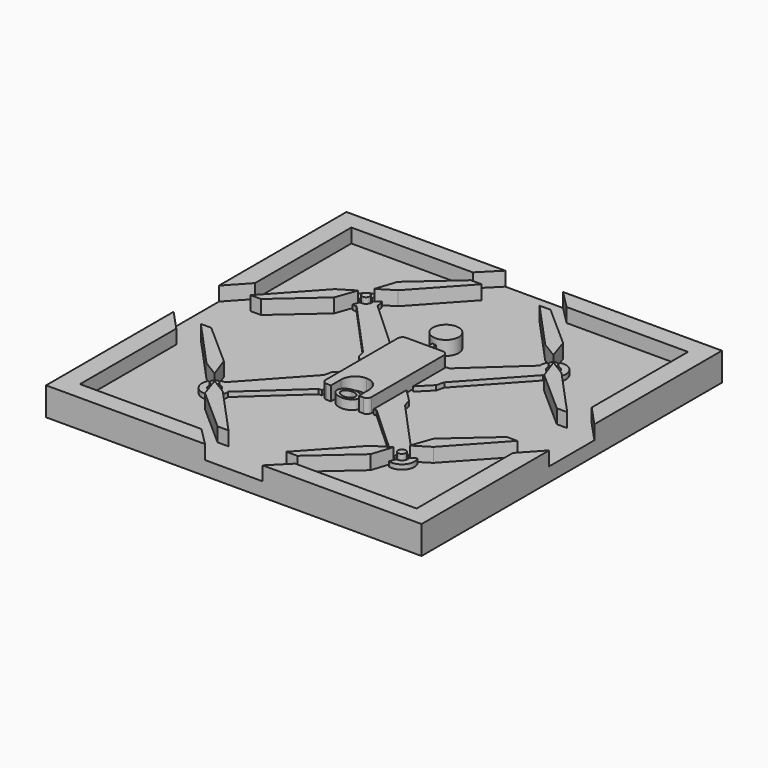
from build123d import *

# Parameters (mm, degrees)
F0_R     = 0.406441
F0_R_2   = 1.37539
F0_W     = 0.206308
F0_H     = 1.00032
F1_DEPTH = 1.5
F2_DEPTH = 3
F3_DEPTH = 2.5
F4_DEPTH = 2


with BuildPart() as f1:
    # F0 (on Top) → F1 (new body)
    with BuildSketch(Plane.XY):
        Polygon((3.071683, 20), (-3.071683, 20), (-4.993777, 18.068939), (-17.932957, 18.068939), (-17.932957, 5.246264), (-20, 3.011257), (-20, -3.011257), (-17.932957, -5.246264), (-17.932957, -18.068939), (-4.993777, -18.068939), (-3.071683, -20), (3.071683, -20), (4.993777, -18.068939), (17.932957, -18.068939), (17.932957, -5.246264), (20, -3.011257), (20, 3.011257), (17.932957, 5.246264), (17.932957, 18.068939), (4.993777, 18.068939), align=None)
        with BuildLine():
            ThreePointArc((-10.562102, -9.840905), (-10.46828, -10.481644), (-9.859537, -10.70251))
            Line((-9.859537, -10.70251), (-9.621989, -11.368845))
            ThreePointArc((-9.621989, -11.368845), (-11.022895, -10.914675), (-11.153115, -9.447756))
            Line((-11.153115, -9.447756), (-10.562102, -9.840905))
        make_face(mode=Mode.SUBTRACT)
        Polygon((-9.532982, -10.635927), (-7.828345, -11.678982), (-3.08488, -16.858847), (-4.248344, -16.858847), (-8.816526, -12.825849), align=None, mode=Mode.SUBTRACT)
        with Locations((-9.979123, -10.082779)):
            Circle(F0_R, mode=Mode.SUBTRACT)
        Polygon((-10.398631, -9.568356), (-12.080961, -8.536017), (-16.860308, -3.31697), (-15.7515, -3.31697), (-11.182444, -7.350739), align=None, mode=Mode.SUBTRACT)
        with BuildLine():
            ThreePointArc((-9.402405, -10.339223), (-9.499763, -9.672191), (-10.143918, -9.473508))
            Line((-10.143918, -9.473508), (-10.398631, -8.815686))
            ThreePointArc((-10.398631, -8.815686), (-10.163262, -8.760809), (-9.921855, -8.749275))
            Line((-9.921855, -8.749275), (-9.912345, -8.738904))
            Line((-9.912345, -8.738904), (-4.342383, -2.634681))
            Line((-4.342383, -2.634681), (-4.115038, -1.80487))
            Line((-4.115038, -1.80487), (-2.749222, -0.425329))
            Line((-2.749222, -0.425329), (-2.749222, -4.835829))
            Line((-2.749222, -4.835829), (-3.08488, -4.835829))
            Line((-3.08488, -4.835829), (-8.65265, -9.93452))
            ThreePointArc((-8.65265, -9.93452), (-8.670516, -10.345566), (-8.812724, -10.731642))
            Line((-8.812724, -10.731642), (-9.402405, -10.339223))
        make_face(mode=Mode.SUBTRACT)
        with BuildLine():
            ThreePointArc((1.321687, -4.523145), (-0.0026, -3.669346), (-1.326886, -4.523145))
            Line((-1.326886, -4.523145), (-1.326886, -3.841337))
            ThreePointArc((-1.326886, -3.841337), (-0.0026, -3.059369), (1.321687, -3.841337))
            Line((1.321687, -3.841337), (1.321687, -4.523145))
        make_face(mode=Mode.SUBTRACT)
        Polygon((7.828345, -11.678982), (9.532982, -10.635927), (8.816526, -12.825849), (4.248344, -16.858847), (3.08488, -16.858847), align=None, mode=Mode.SUBTRACT)
        with Locations((9.979123, -10.082779)):
            Circle(F0_R, mode=Mode.SUBTRACT)
        with BuildLine():
            Line((9.621989, -11.368845), (9.859537, -10.70251))
            ThreePointArc((9.859537, -10.70251), (10.46828, -10.481644), (10.562102, -9.840905))
            Line((10.562102, -9.840905), (11.153115, -9.447756))
            ThreePointArc((11.153115, -9.447756), (11.022895, -10.914675), (9.621989, -11.368845))
        make_face(mode=Mode.SUBTRACT)
        with BuildLine():
            ThreePointArc((10.143918, -9.473508), (9.499763, -9.672191), (9.402405, -10.339223))
            Line((9.402405, -10.339223), (8.812724, -10.731642))
            ThreePointArc((8.812724, -10.731642), (8.670516, -10.345566), (8.65265, -9.93452))
            Line((8.65265, -9.93452), (3.08488, -4.835829))
            Line((3.08488, -4.835829), (2.749222, -4.835829))
            Line((2.749222, -4.835829), (2.749222, -0.425329))
            Line((2.749222, -0.425329), (4.115038, -1.80487))
            Line((4.115038, -1.80487), (4.342383, -2.634681))
            Line((4.342383, -2.634681), (9.912345, -8.738904))
            Line((9.912345, -8.738904), (9.92181, -8.749277))
            ThreePointArc((9.92181, -8.749277), (10.163239, -8.760806), (10.398631, -8.815686))
            Line((10.398631, -8.815686), (10.143918, -9.473508))
        make_face(mode=Mode.SUBTRACT)
        with BuildLine():
            add(Edge.make_bspline(
                [(-1.189475, -4.773144), (-1.189475, -6.223987), (0.594738, -5.498565), (2.378951, -4.773144), (0.594738, -4.047722), (-1.189475, -3.3223), (-1.189475, -4.773144)],
                knots=[0, 0, 0, 2.094395, 2.094395, 4.18879, 4.18879, 6.283185, 6.283185, 6.283185], degree=2, weights=[1, 0.5, 1, 0.5, 1, 0.5, 1]))
        make_face(mode=Mode.SUBTRACT)
        Polygon((11.182444, -7.350739), (15.7515, -3.31697), (16.860308, -3.31697), (12.080961, -8.536017), (10.398631, -9.568356), align=None, mode=Mode.SUBTRACT)
        Polygon((-15.7515, 3.31697), (-16.860308, 3.31697), (-12.080961, 8.536017), (-10.398631, 9.568356), (-11.182444, 7.350739), align=None, mode=Mode.SUBTRACT)
        with BuildLine():
            Line((-2.749222, 4.835829), (-2.749222, 0.425329))
            Line((-2.749222, 0.425329), (-4.115038, 1.80487))
            Line((-4.115038, 1.80487), (-4.342383, 2.634681))
            Line((-4.342383, 2.634681), (-9.912345, 8.738904))
            Line((-9.912345, 8.738904), (-9.922416, 8.749251))
            ThreePointArc((-9.922416, 8.749251), (-10.16354, 8.760848), (-10.398631, 8.815686))
            Line((-10.398631, 8.815686), (-10.143918, 9.473508))
            ThreePointArc((-10.143918, 9.473508), (-9.499763, 9.672191), (-9.402405, 10.339223))
            Line((-9.402405, 10.339223), (-8.812724, 10.731642))
            ThreePointArc((-8.812724, 10.731642), (-8.670516, 10.345566), (-8.65265, 9.93452))
            Line((-8.65265, 9.93452), (-3.08488, 4.835829))
            Line((-3.08488, 4.835829), (-2.749222, 4.835829))
        make_face(mode=Mode.SUBTRACT)
        with BuildLine():
            Line((-10.562102, 9.840905), (-11.153115, 9.447756))
            ThreePointArc((-11.153115, 9.447756), (-11.022895, 10.914675), (-9.621989, 11.368845))
            Line((-9.621989, 11.368845), (-9.859537, 10.70251))
            ThreePointArc((-9.859537, 10.70251), (-10.46828, 10.481644), (-10.562102, 9.840905))
        make_face(mode=Mode.SUBTRACT)
        with Locations((-9.979123, 10.082779)):
            Circle(F0_R, mode=Mode.SUBTRACT)
        Polygon((-7.828345, 11.678982), (-9.532982, 10.635927), (-8.816526, 12.825849), (-4.248344, 16.858847), (-3.08488, 16.858847), align=None, mode=Mode.SUBTRACT)
        with BuildLine():
            Line((-1.956361, 5.406742), (0, 5.406742))
            Line((0, 5.406742), (1.956361, 5.406742))
            ThreePointArc((1.956361, 5.406742), (2.309915, 5.260296), (2.456361, 4.906742))
            Line((2.456361, 4.906742), (2.456361, -4.708137))
            ThreePointArc((2.456361, -4.708137), (2.309915, -5.06169), (1.956361, -5.208137))
            Line((1.956361, -5.208137), (1.485665, -5.208137))
            Line((1.485665, -5.208137), (1.485665, -3.838153))
            ThreePointArc((1.485665, -3.838153), (1.050524, -2.787629), (0, -2.352488))
            ThreePointArc((0, -2.352488), (-1.050524, -2.787629), (-1.485665, -3.838153))
            Line((-1.485665, -3.838153), (-1.485665, -5.208137))
            Line((-1.485665, -5.208137), (-1.956361, -5.208137))
            ThreePointArc((-1.956361, -5.208137), (-2.309915, -5.06169), (-2.456361, -4.708137))
            Line((-2.456361, -4.708137), (-2.456361, 4.906742))
            ThreePointArc((-2.456361, 4.906742), (-2.309915, 5.260296), (-1.956361, 5.406742))
        make_face(mode=Mode.SUBTRACT)
        Polygon((-0.206308, 6.698101), (0, 6.698101), (0.206308, 6.698101), (0.206308, 5.697781), (0, 5.697781), (-0.206308, 5.697781), align=None, mode=Mode.SUBTRACT)
        with Locations((0, 8.238171)):
            Circle(F0_R_2, mode=Mode.SUBTRACT)
        with BuildLine():
            ThreePointArc((9.402405, 10.339223), (9.499763, 9.672191), (10.143918, 9.473508))
            Line((10.143918, 9.473508), (10.398631, 8.815686))
            ThreePointArc((10.398631, 8.815686), (10.163239, 8.760806), (9.92181, 8.749277))
            Line((9.92181, 8.749277), (9.912345, 8.738904))
            Line((9.912345, 8.738904), (4.342383, 2.634681))
            Line((4.342383, 2.634681), (4.115038, 1.80487))
            Line((4.115038, 1.80487), (2.749222, 0.425329))
            Line((2.749222, 0.425329), (2.749222, 4.835829))
            Line((2.749222, 4.835829), (3.08488, 4.835829))
            Line((3.08488, 4.835829), (8.65265, 9.93452))
            ThreePointArc((8.65265, 9.93452), (8.670516, 10.345566), (8.812724, 10.731642))
            Line((8.812724, 10.731642), (9.402405, 10.339223))
        make_face(mode=Mode.SUBTRACT)
        Polygon((16.860308, 3.31697), (15.7515, 3.31697), (11.182444, 7.350739), (10.398631, 9.568356), (12.080961, 8.536017), align=None, mode=Mode.SUBTRACT)
        with Locations((9.979123, 10.082779)):
            Circle(F0_R, mode=Mode.SUBTRACT)
        Polygon((3.08488, 16.858847), (4.248344, 16.858847), (8.816526, 12.825849), (9.532982, 10.635927), (7.828345, 11.678982), align=None, mode=Mode.SUBTRACT)
        with BuildLine():
            ThreePointArc((10.562102, 9.840905), (10.46828, 10.481644), (9.859537, 10.70251))
            Line((9.859537, 10.70251), (9.621989, 11.368845))
            ThreePointArc((9.621989, 11.368845), (11.022895, 10.914675), (11.153115, 9.447756))
            Line((11.153115, 9.447756), (10.562102, 9.840905))
        make_face(mode=Mode.SUBTRACT)
        Polygon((16.860308, -3.31697), (15.7515, -3.31697), (11.182444, -7.350739), (10.398631, -9.568356), (12.080961, -8.536017), align=None)
        Polygon((8.816526, 12.825849), (4.248344, 16.858847), (3.08488, 16.858847), (7.828345, 11.678982), (9.532982, 10.635927), align=None)
        Polygon((-3.071683, 20), (-20, 20), (-20, 3.011257), (-17.932957, 5.246264), (-17.932957, 18.068939), (-4.993777, 18.068939), align=None)
        Polygon((20, 20), (3.071683, 20), (4.993777, 18.068939), (17.932957, 18.068939), (17.932957, 5.246264), (20, 3.011257), align=None)
        Polygon((8.816526, -12.825849), (9.532982, -10.635927), (7.828345, -11.678982), (3.08488, -16.858847), (4.248344, -16.858847), align=None)
        Polygon((-12.080961, 8.536017), (-16.860308, 3.31697), (-15.7515, 3.31697), (-11.182444, 7.350739), (-10.398631, 9.568356), align=None)
        Polygon((-3.08488, -16.858847), (-7.828345, -11.678982), (-9.532982, -10.635927), (-8.816526, -12.825849), (-4.248344, -16.858847), align=None)
        Polygon((-17.932957, -5.246264), (-20, -3.011257), (-20, -20), (-3.071683, -20), (-4.993777, -18.068939), (-17.932957, -18.068939), align=None)
        Polygon((-8.816526, 12.825849), (-9.532982, 10.635927), (-7.828345, 11.678982), (-3.08488, 16.858847), (-4.248344, 16.858847), align=None)
        Polygon((20, -20), (20, -3.011257), (17.932957, -5.246264), (17.932957, -18.068939), (4.993777, -18.068939), (3.071683, -20), align=None)
        Polygon((11.182444, 7.350739), (15.7515, 3.31697), (16.860308, 3.31697), (12.080961, 8.536017), (10.398631, 9.568356), align=None)
        Polygon((-16.860308, -3.31697), (-12.080961, -8.536017), (-10.398631, -9.568356), (-11.182444, -7.350739), (-15.7515, -3.31697), align=None)
        with BuildLine():
            Line((0, -2.352488), (0, 5.406742))
            Line((0, 5.406742), (-1.956361, 5.406742))
            ThreePointArc((-1.956361, 5.406742), (-2.309915, 5.260296), (-2.456361, 4.906742))
            Line((-2.456361, 4.906742), (-2.456361, -4.708137))
            ThreePointArc((-2.456361, -4.708137), (-2.309915, -5.06169), (-1.956361, -5.208137))
            Line((-1.956361, -5.208137), (-1.485665, -5.208137))
            Line((-1.485665, -5.208137), (-1.485665, -3.838153))
            ThreePointArc((-1.485665, -3.838153), (-1.050524, -2.787629), (0, -2.352488))
        make_face()
        with BuildLine():
            Line((-9.621989, -11.368845), (-9.859537, -10.70251))
            ThreePointArc((-9.859537, -10.70251), (-10.46828, -10.481644), (-10.562102, -9.840905))
            Line((-10.562102, -9.840905), (-11.153115, -9.447756))
            ThreePointArc((-11.153115, -9.447756), (-11.022895, -10.914675), (-9.621989, -11.368845))
        make_face()
        with Locations((0, 8.238171)):
            Circle(F0_R_2)
        with BuildLine():
            ThreePointArc((-9.621989, 11.368845), (-11.022895, 10.914675), (-11.153115, 9.447756))
            Line((-11.153115, 9.447756), (-10.562102, 9.840905))
            ThreePointArc((-10.562102, 9.840905), (-10.46828, 10.481644), (-9.859537, 10.70251))
            Line((-9.859537, 10.70251), (-9.621989, 11.368845))
        make_face()
        with BuildLine():
            Line((9.621989, 11.368845), (9.859537, 10.70251))
            ThreePointArc((9.859537, 10.70251), (10.46828, 10.481644), (10.562102, 9.840905))
            Line((10.562102, 9.840905), (11.153115, 9.447756))
            ThreePointArc((11.153115, 9.447756), (11.022895, 10.914675), (9.621989, 11.368845))
        make_face()
        with BuildLine():
            ThreePointArc((-9.922416, 8.749251), (-9.068348, 9.107074), (-8.65265, 9.93452))
            ThreePointArc((-8.65265, 9.93452), (-8.670516, 10.345566), (-8.812724, 10.731642))
            Line((-8.812724, 10.731642), (-9.402405, 10.339223))
            ThreePointArc((-9.402405, 10.339223), (-9.499763, 9.672191), (-10.143918, 9.473508))
            Line((-10.143918, 9.473508), (-10.398631, 8.815686))
            ThreePointArc((-10.398631, 8.815686), (-10.16354, 8.760848), (-9.922416, 8.749251))
        make_face()
        with BuildLine():
            Line((10.398631, 8.815686), (10.143918, 9.473508))
            ThreePointArc((10.143918, 9.473508), (9.499763, 9.672191), (9.402405, 10.339223))
            Line((9.402405, 10.339223), (8.812724, 10.731642))
            ThreePointArc((8.812724, 10.731642), (8.670516, 10.345566), (8.65265, 9.93452))
            ThreePointArc((8.65265, 9.93452), (9.068126, 9.107281), (9.92181, 8.749277))
            ThreePointArc((9.92181, 8.749277), (10.163239, 8.760806), (10.398631, 8.815686))
        make_face()
        with BuildLine():
            ThreePointArc((10.562102, -9.840905), (10.46828, -10.481644), (9.859537, -10.70251))
            Line((9.859537, -10.70251), (9.621989, -11.368845))
            ThreePointArc((9.621989, -11.368845), (11.022895, -10.914675), (11.153115, -9.447756))
            Line((11.153115, -9.447756), (10.562102, -9.840905))
        make_face()
        with BuildLine():
            Line((-10.398631, -8.815686), (-10.143918, -9.473508))
            ThreePointArc((-10.143918, -9.473508), (-9.499763, -9.672191), (-9.402405, -10.339223))
            Line((-9.402405, -10.339223), (-8.812724, -10.731642))
            ThreePointArc((-8.812724, -10.731642), (-8.670516, -10.345566), (-8.65265, -9.93452))
            ThreePointArc((-8.65265, -9.93452), (-9.068142, -9.107266), (-9.921855, -8.749275))
            ThreePointArc((-9.921855, -8.749275), (-10.163262, -8.760809), (-10.398631, -8.815686))
        make_face()
        with BuildLine():
            add(Edge.make_bspline(
                [(-1.189475, -4.773144), (-1.189475, -6.223987), (0.594738, -5.498565), (2.378951, -4.773144), (0.594738, -4.047722), (-1.189475, -3.3223), (-1.189475, -4.773144)],
                knots=[0, 0, 0, 2.094395, 2.094395, 4.18879, 4.18879, 6.283185, 6.283185, 6.283185], degree=2, weights=[1, 0.5, 1, 0.5, 1, 0.5, 1]))
        make_face()
        with BuildLine():
            add(Edge.make_bspline(
                [(-0.783934, -4.773144), (-0.783934, -5.731916), (0.391967, -5.25253), (1.567868, -4.773144), (0.391967, -4.293758), (-0.783934, -3.814371), (-0.783934, -4.773144)],
                knots=[0, 0, 0, 2.094395, 2.094395, 4.18879, 4.18879, 6.283185, 6.283185, 6.283185], degree=2, weights=[1, 0.5, 1, 0.5, 1, 0.5, 1]))
        make_face(mode=Mode.SUBTRACT)
        with BuildLine():
            add(Edge.make_bspline(
                [(-0.783934, -4.773144), (-0.783934, -5.731916), (0.391967, -5.25253), (1.567868, -4.773144), (0.391967, -4.293758), (-0.783934, -3.814371), (-0.783934, -4.773144)],
                knots=[0, 0, 0, 2.094395, 2.094395, 4.18879, 4.18879, 6.283185, 6.283185, 6.283185], degree=2, weights=[1, 0.5, 1, 0.5, 1, 0.5, 1]))
        make_face()
        with BuildLine():
            Line((8.812724, -10.731642), (9.402405, -10.339223))
            ThreePointArc((9.402405, -10.339223), (9.499763, -9.672191), (10.143918, -9.473508))
            Line((10.143918, -9.473508), (10.398631, -8.815686))
            ThreePointArc((10.398631, -8.815686), (10.163239, -8.760806), (9.92181, -8.749277))
            ThreePointArc((9.92181, -8.749277), (9.068126, -9.107281), (8.65265, -9.93452))
            ThreePointArc((8.65265, -9.93452), (8.670516, -10.345566), (8.812724, -10.731642))
        make_face()
        with Locations((-9.979123, -10.082779)):
            Circle(F0_R)
        with Locations((9.979123, -10.082779)):
            Circle(F0_R)
        with Locations((9.979123, 10.082779)):
            Circle(F0_R)
        with Locations((-9.979123, 10.082779)):
            Circle(F0_R)
        with Locations((0.103154, 6.197941)):
            Rectangle(F0_W, F0_H)
        with Locations((-0.103154, 6.197941)):
            Rectangle(F0_W, F0_H)
    extrude(amount=F1_DEPTH)

    # F0 (on Top) → F2 (join)
    with BuildSketch(Plane.XY):
        Polygon((-3.071683, 20), (-20, 20), (-20, 3.011257), (-17.932957, 5.246264), (-17.932957, 18.068939), (-4.993777, 18.068939), align=None)
        Polygon((-17.932957, -5.246264), (-20, -3.011257), (-20, -20), (-3.071683, -20), (-4.993777, -18.068939), (-17.932957, -18.068939), align=None)
        Polygon((20, -20), (20, -3.011257), (17.932957, -5.246264), (17.932957, -18.068939), (4.993777, -18.068939), (3.071683, -20), align=None)
        Polygon((20, 20), (3.071683, 20), (4.993777, 18.068939), (17.932957, 18.068939), (17.932957, 5.246264), (20, 3.011257), align=None)
        Polygon((-3.08488, -16.858847), (-7.828345, -11.678982), (-9.532982, -10.635927), (-8.816526, -12.825849), (-4.248344, -16.858847), align=None)
        Polygon((-16.860308, -3.31697), (-12.080961, -8.536017), (-10.398631, -9.568356), (-11.182444, -7.350739), (-15.7515, -3.31697), align=None)
        Polygon((8.816526, -12.825849), (9.532982, -10.635927), (7.828345, -11.678982), (3.08488, -16.858847), (4.248344, -16.858847), align=None)
        Polygon((16.860308, -3.31697), (15.7515, -3.31697), (11.182444, -7.350739), (10.398631, -9.568356), (12.080961, -8.536017), align=None)
        Polygon((11.182444, 7.350739), (15.7515, 3.31697), (16.860308, 3.31697), (12.080961, 8.536017), (10.398631, 9.568356), align=None)
        Polygon((8.816526, 12.825849), (4.248344, 16.858847), (3.08488, 16.858847), (7.828345, 11.678982), (9.532982, 10.635927), align=None)
        Polygon((-8.816526, 12.825849), (-9.532982, 10.635927), (-7.828345, 11.678982), (-3.08488, 16.858847), (-4.248344, 16.858847), align=None)
        Polygon((-12.080961, 8.536017), (-16.860308, 3.31697), (-15.7515, 3.31697), (-11.182444, 7.350739), (-10.398631, 9.568356), align=None)
        with BuildLine():
            Line((0, -2.352488), (0, 5.406742))
            Line((0, 5.406742), (-1.956361, 5.406742))
            ThreePointArc((-1.956361, 5.406742), (-2.309915, 5.260296), (-2.456361, 4.906742))
            Line((-2.456361, 4.906742), (-2.456361, -4.708137))
            ThreePointArc((-2.456361, -4.708137), (-2.309915, -5.06169), (-1.956361, -5.208137))
            Line((-1.956361, -5.208137), (-1.485665, -5.208137))
            Line((-1.485665, -5.208137), (-1.485665, -3.838153))
            ThreePointArc((-1.485665, -3.838153), (-1.050524, -2.787629), (0, -2.352488))
        make_face()
        with BuildLine():
            Line((1.956361, 5.406742), (0, 5.406742))
            Line((0, 5.406742), (0, -2.352488))
            ThreePointArc((0, -2.352488), (1.050524, -2.787629), (1.485665, -3.838153))
            Line((1.485665, -3.838153), (1.485665, -5.208137))
            Line((1.485665, -5.208137), (1.956361, -5.208137))
            ThreePointArc((1.956361, -5.208137), (2.309915, -5.06169), (2.456361, -4.708137))
            Line((2.456361, -4.708137), (2.456361, 4.906742))
            ThreePointArc((2.456361, 4.906742), (2.309915, 5.260296), (1.956361, 5.406742))
        make_face()
        with Locations((0, 8.238171)):
            Circle(F0_R_2)
    extrude(amount=F2_DEPTH)

    # F0 (on Top) → F3 (join)
    with BuildSketch(Plane.XY):
        with Locations((-0.103154, 6.197941)):
            Rectangle(F0_W, F0_H)
        with Locations((0.103154, 6.197941)):
            Rectangle(F0_W, F0_H)
        with BuildLine():
            add(Edge.make_bspline(
                [(-1.189475, -4.773144), (-1.189475, -6.223987), (0.594738, -5.498565), (2.378951, -4.773144), (0.594738, -4.047722), (-1.189475, -3.3223), (-1.189475, -4.773144)],
                knots=[0, 0, 0, 2.094395, 2.094395, 4.18879, 4.18879, 6.283185, 6.283185, 6.283185], degree=2, weights=[1, 0.5, 1, 0.5, 1, 0.5, 1]))
        make_face()
        with BuildLine():
            add(Edge.make_bspline(
                [(-0.783934, -4.773144), (-0.783934, -5.731916), (0.391967, -5.25253), (1.567868, -4.773144), (0.391967, -4.293758), (-0.783934, -3.814371), (-0.783934, -4.773144)],
                knots=[0, 0, 0, 2.094395, 2.094395, 4.18879, 4.18879, 6.283185, 6.283185, 6.283185], degree=2, weights=[1, 0.5, 1, 0.5, 1, 0.5, 1]))
        make_face(mode=Mode.SUBTRACT)
        with Locations((-9.979123, 10.082779)):
            Circle(F0_R)
        with Locations((9.979123, 10.082779)):
            Circle(F0_R)
        with Locations((9.979123, -10.082779)):
            Circle(F0_R)
        with Locations((-9.979123, -10.082779)):
            Circle(F0_R)
    extrude(amount=F3_DEPTH)

    # F0 (on Top) → F4 (join)
    with BuildSketch(Plane.XY):
        with BuildLine():
            Line((-9.621989, -11.368845), (-9.859537, -10.70251))
            ThreePointArc((-9.859537, -10.70251), (-10.46828, -10.481644), (-10.562102, -9.840905))
            Line((-10.562102, -9.840905), (-11.153115, -9.447756))
            ThreePointArc((-11.153115, -9.447756), (-11.022895, -10.914675), (-9.621989, -11.368845))
        make_face()
        with BuildLine():
            Line((-10.398631, -8.815686), (-10.143918, -9.473508))
            ThreePointArc((-10.143918, -9.473508), (-9.499763, -9.672191), (-9.402405, -10.339223))
            Line((-9.402405, -10.339223), (-8.812724, -10.731642))
            ThreePointArc((-8.812724, -10.731642), (-8.670516, -10.345566), (-8.65265, -9.93452))
            ThreePointArc((-8.65265, -9.93452), (-9.068142, -9.107266), (-9.921855, -8.749275))
            ThreePointArc((-9.921855, -8.749275), (-10.163262, -8.760809), (-10.398631, -8.815686))
        make_face()
        with BuildLine():
            Line((-9.912345, -8.738904), (-9.921855, -8.749275))
            ThreePointArc((-9.921855, -8.749275), (-9.068142, -9.107266), (-8.65265, -9.93452))
            Line((-8.65265, -9.93452), (-3.08488, -4.835829))
            Line((-3.08488, -4.835829), (-2.749222, -4.835829))
            Line((-2.749222, -4.835829), (-2.749222, -0.425329))
            Line((-2.749222, -0.425329), (-4.115038, -1.80487))
            Line((-4.115038, -1.80487), (-4.342383, -2.634681))
            Line((-4.342383, -2.634681), (-9.912345, -8.738904))
        make_face()
        with BuildLine():
            Line((-4.115038, 1.80487), (-2.749222, 0.425329))
            Line((-2.749222, 0.425329), (-2.749222, 4.835829))
            Line((-2.749222, 4.835829), (-3.08488, 4.835829))
            Line((-3.08488, 4.835829), (-8.65265, 9.93452))
            ThreePointArc((-8.65265, 9.93452), (-9.068348, 9.107074), (-9.922416, 8.749251))
            Line((-9.922416, 8.749251), (-9.912345, 8.738904))
            Line((-9.912345, 8.738904), (-4.342383, 2.634681))
            Line((-4.342383, 2.634681), (-4.115038, 1.80487))
        make_face()
        with BuildLine():
            ThreePointArc((-9.922416, 8.749251), (-9.068348, 9.107074), (-8.65265, 9.93452))
            ThreePointArc((-8.65265, 9.93452), (-8.670516, 10.345566), (-8.812724, 10.731642))
            Line((-8.812724, 10.731642), (-9.402405, 10.339223))
            ThreePointArc((-9.402405, 10.339223), (-9.499763, 9.672191), (-10.143918, 9.473508))
            Line((-10.143918, 9.473508), (-10.398631, 8.815686))
            ThreePointArc((-10.398631, 8.815686), (-10.16354, 8.760848), (-9.922416, 8.749251))
        make_face()
        with BuildLine():
            ThreePointArc((-9.621989, 11.368845), (-11.022895, 10.914675), (-11.153115, 9.447756))
            Line((-11.153115, 9.447756), (-10.562102, 9.840905))
            ThreePointArc((-10.562102, 9.840905), (-10.46828, 10.481644), (-9.859537, 10.70251))
            Line((-9.859537, 10.70251), (-9.621989, 11.368845))
        make_face()
        with BuildLine():
            Line((3.08488, -4.835829), (8.65265, -9.93452))
            ThreePointArc((8.65265, -9.93452), (9.068126, -9.107281), (9.92181, -8.749277))
            Line((9.92181, -8.749277), (9.912345, -8.738904))
            Line((9.912345, -8.738904), (4.342383, -2.634681))
            Line((4.342383, -2.634681), (4.115038, -1.80487))
            Line((4.115038, -1.80487), (2.749222, -0.425329))
            Line((2.749222, -0.425329), (2.749222, -4.835829))
            Line((2.749222, -4.835829), (3.08488, -4.835829))
        make_face()
        with BuildLine():
            Line((8.812724, -10.731642), (9.402405, -10.339223))
            ThreePointArc((9.402405, -10.339223), (9.499763, -9.672191), (10.143918, -9.473508))
            Line((10.143918, -9.473508), (10.398631, -8.815686))
            ThreePointArc((10.398631, -8.815686), (10.163239, -8.760806), (9.92181, -8.749277))
            ThreePointArc((9.92181, -8.749277), (9.068126, -9.107281), (8.65265, -9.93452))
            ThreePointArc((8.65265, -9.93452), (8.670516, -10.345566), (8.812724, -10.731642))
        make_face()
        with BuildLine():
            ThreePointArc((10.562102, -9.840905), (10.46828, -10.481644), (9.859537, -10.70251))
            Line((9.859537, -10.70251), (9.621989, -11.368845))
            ThreePointArc((9.621989, -11.368845), (11.022895, -10.914675), (11.153115, -9.447756))
            Line((11.153115, -9.447756), (10.562102, -9.840905))
        make_face()
        with BuildLine():
            Line((9.912345, 8.738904), (9.92181, 8.749277))
            ThreePointArc((9.92181, 8.749277), (9.068126, 9.107281), (8.65265, 9.93452))
            Line((8.65265, 9.93452), (3.08488, 4.835829))
            Line((3.08488, 4.835829), (2.749222, 4.835829))
            Line((2.749222, 4.835829), (2.749222, 0.425329))
            Line((2.749222, 0.425329), (4.115038, 1.80487))
            Line((4.115038, 1.80487), (4.342383, 2.634681))
            Line((4.342383, 2.634681), (9.912345, 8.738904))
        make_face()
        with BuildLine():
            Line((10.398631, 8.815686), (10.143918, 9.473508))
            ThreePointArc((10.143918, 9.473508), (9.499763, 9.672191), (9.402405, 10.339223))
            Line((9.402405, 10.339223), (8.812724, 10.731642))
            ThreePointArc((8.812724, 10.731642), (8.670516, 10.345566), (8.65265, 9.93452))
            ThreePointArc((8.65265, 9.93452), (9.068126, 9.107281), (9.92181, 8.749277))
            ThreePointArc((9.92181, 8.749277), (10.163239, 8.760806), (10.398631, 8.815686))
        make_face()
        with BuildLine():
            Line((9.621989, 11.368845), (9.859537, 10.70251))
            ThreePointArc((9.859537, 10.70251), (10.46828, 10.481644), (10.562102, 9.840905))
            Line((10.562102, 9.840905), (11.153115, 9.447756))
            ThreePointArc((11.153115, 9.447756), (11.022895, 10.914675), (9.621989, 11.368845))
        make_face()
        with BuildLine():
            Line((-1.326886, -3.841337), (-1.326886, -4.523145))
            ThreePointArc((-1.326886, -4.523145), (-0.0026, -3.669346), (1.321687, -4.523145))
            Line((1.321687, -4.523145), (1.321687, -3.841337))
            ThreePointArc((1.321687, -3.841337), (-0.0026, -3.059369), (-1.326886, -3.841337))
        make_face()
    extrude(amount=F4_DEPTH)


solid = f1.part
